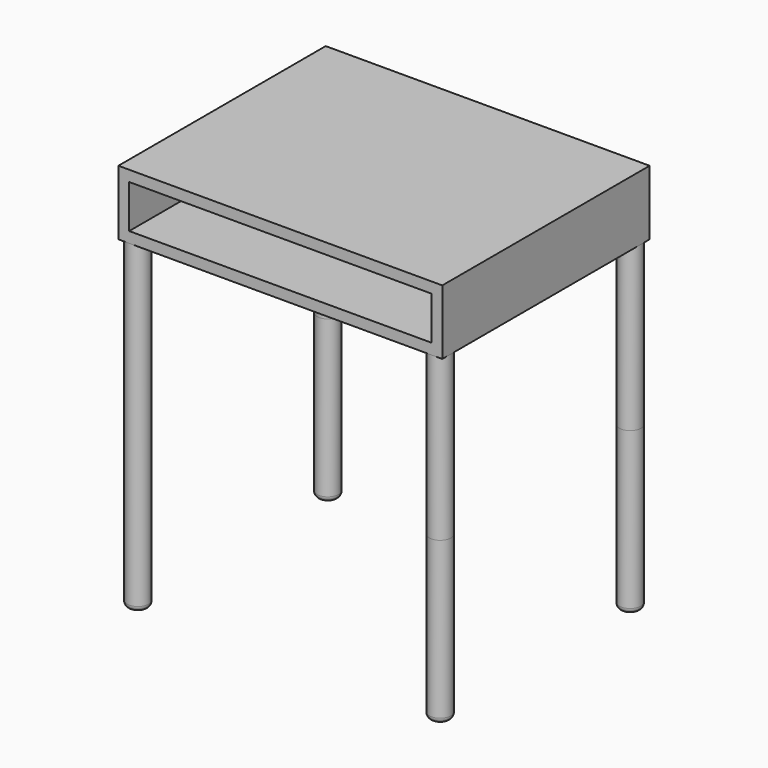
from build123d import *

# Parameters (mm, degrees)
F0_W     = 762
F0_H     = 152.4
F1_DEPTH = 304.8
F2_T     = -25.4
F3_R     = 25.4
F4_DEPTH = 381
F5_R     = 12.7


with BuildPart() as f1:
    # F0 (on Front) → F1 (new body, symmetric)
    with BuildSketch(Plane.XZ):
        with Locations((0, 457.2)):
            Rectangle(F0_W, F0_H)
    extrude(amount=F1_DEPTH, both=True)

    # F2
    f2_openings = [f1.faces().sort_by_distance(p)[0] for p in [
        (0, -304.8, 457.2),
    ]]
    offset(amount=F2_T, openings=f2_openings)

    # F3 (on Top) → F4 (join, symmetric)
    with BuildSketch(Plane.XY):
        with Locations((-355.6, 279.4)):
            Circle(F3_R)
        with Locations((355.6, 279.4)):
            Circle(F3_R)
        with Locations((355.6, -279.4)):
            Circle(F3_R)
        with Locations((-355.6, -279.4)):
            Circle(F3_R)
    extrude(amount=F4_DEPTH, both=True)

    # F5
    f5_edges = [f1.edges().sort_by_distance(p)[0] for p in [
        (-381, 279.4, -381),
        (-381, -279.4, -381),
        (330.2, -279.4, -381),
        (330.2, 279.4, -381),
    ]]
    fillet(f5_edges, radius=F5_R)


solid = f1.part
